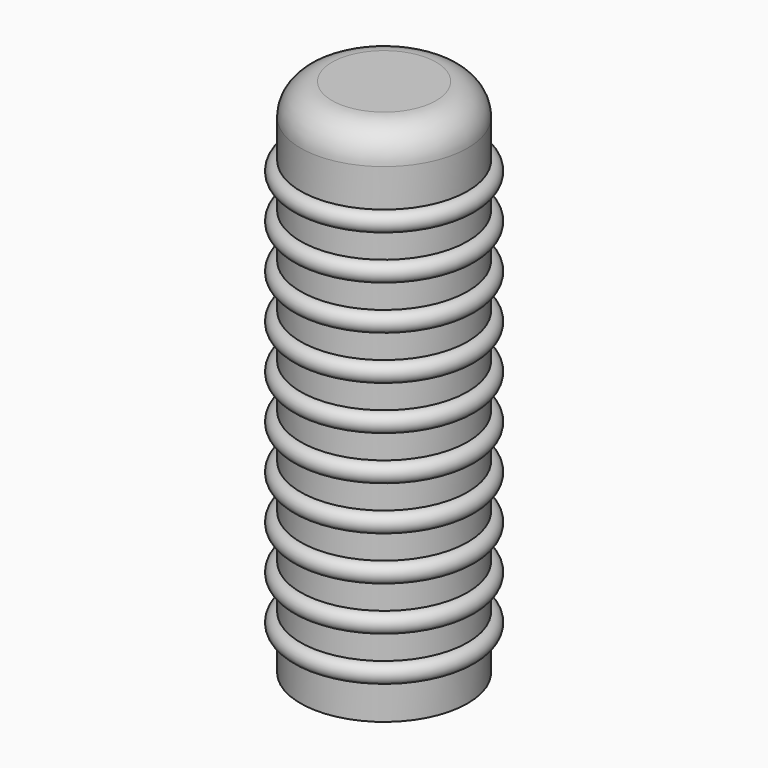
from build123d import *

# Parameters (mm, degrees)
F2_SIZE = 1


with BuildPart() as f1:
    # F0 (on Front) → F1 (revolve)
    with BuildSketch(Plane.XZ):
        with BuildLine():
            Line((0, 82.5), (0, 80))
            Line((0, 80), (11.25, 80))
            Line((11.25, 80), (11.25, 0))
            Line((11.25, 0), (13.25, 0))
            Line((13.25, 0), (13.25, 5.5))
            Line((13.25, 5.5), (13.25, 8.5))
            Line((13.25, 8.5), (13.25, 12.5))
            Line((13.25, 12.5), (13.25, 15.5))
            Line((13.25, 15.5), (13.25, 19.5))
            Line((13.25, 19.5), (13.25, 22.5))
            Line((13.25, 22.5), (13.25, 26.5))
            Line((13.25, 26.5), (13.25, 29.5))
            Line((13.25, 29.5), (13.25, 33.5))
            Line((13.25, 33.5), (13.25, 36.5))
            Line((13.25, 36.5), (13.25, 40.5))
            Line((13.25, 40.5), (13.25, 43.5))
            Line((13.25, 43.5), (13.25, 47.5))
            Line((13.25, 47.5), (13.25, 50.5))
            Line((13.25, 50.5), (13.25, 54.5))
            Line((13.25, 54.5), (13.25, 57.5))
            Line((13.25, 57.5), (13.25, 61.5))
            Line((13.25, 61.5), (13.25, 64.5))
            Line((13.25, 64.5), (13.25, 68.5))
            Line((13.25, 68.5), (13.25, 71.5))
            Line((13.25, 71.5), (13.25, 77.5))
            ThreePointArc((13.25, 77.5), (11.785534, 81.035534), (8.25, 82.5))
            Line((8.25, 82.5), (0, 82.5))
        make_face()
        with BuildLine():
            ThreePointArc((13.25, 68.5), (14.75, 70), (13.25, 71.5))
            Line((13.25, 71.5), (13.25, 68.5))
        make_face()
        with BuildLine():
            Line((13.25, 8.5), (13.25, 5.5))
            ThreePointArc((13.25, 5.5), (14.75, 7), (13.25, 8.5))
        make_face()
        with BuildLine():
            ThreePointArc((13.25, 61.5), (14.75, 63), (13.25, 64.5))
            Line((13.25, 64.5), (13.25, 61.5))
        make_face()
        with BuildLine():
            Line((13.25, 15.5), (13.25, 12.5))
            ThreePointArc((13.25, 12.5), (14.75, 14), (13.25, 15.5))
        make_face()
        with BuildLine():
            ThreePointArc((13.25, 54.5), (14.75, 56), (13.25, 57.5))
            Line((13.25, 57.5), (13.25, 54.5))
        make_face()
        with BuildLine():
            Line((13.25, 22.5), (13.25, 19.5))
            ThreePointArc((13.25, 19.5), (14.75, 21), (13.25, 22.5))
        make_face()
        with BuildLine():
            ThreePointArc((13.25, 47.5), (14.75, 49), (13.25, 50.5))
            Line((13.25, 50.5), (13.25, 47.5))
        make_face()
        with BuildLine():
            Line((13.25, 29.5), (13.25, 26.5))
            ThreePointArc((13.25, 26.5), (14.75, 28), (13.25, 29.5))
        make_face()
        with BuildLine():
            ThreePointArc((13.25, 40.5), (14.75, 42), (13.25, 43.5))
            Line((13.25, 43.5), (13.25, 40.5))
        make_face()
        with BuildLine():
            Line((13.25, 36.5), (13.25, 33.5))
            ThreePointArc((13.25, 33.5), (14.75, 35), (13.25, 36.5))
        make_face()
    revolve(axis=Axis((0, 0, 41.25), (0, 0, 1)))

    # F2
    f2_edges = [f1.edges().sort_by_distance(p)[0] for p in [
        (-11.25, 0, 0),
    ]]
    chamfer(f2_edges, length=F2_SIZE)


solid = f1.part
